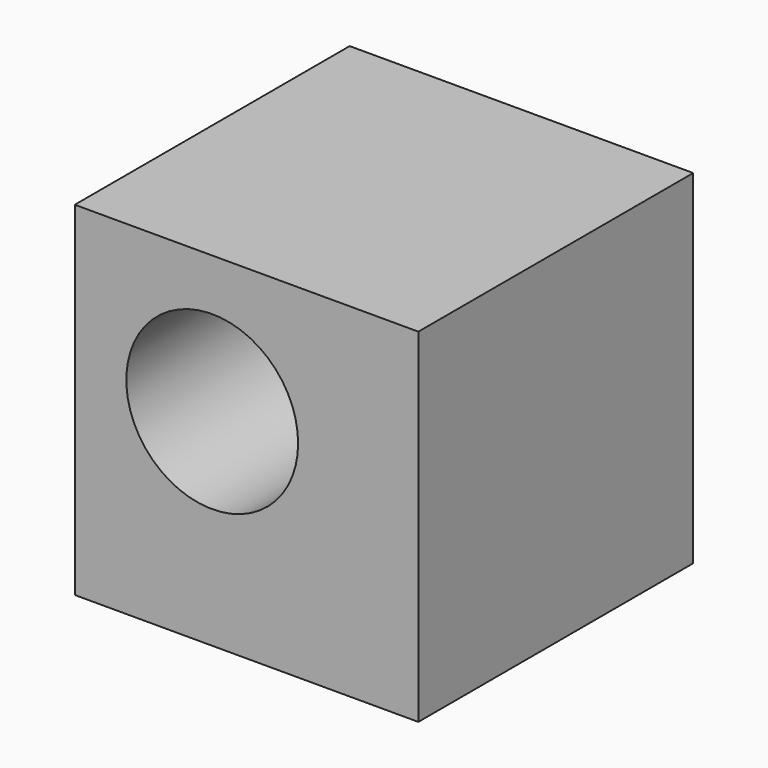
from build123d import *

# Parameters (mm, degrees)
F0_W     = 20
F0_H     = 20
F1_DEPTH = 10
F2_R     = 5
F3_DEPTH = 20.001


with BuildPart() as f1:
    # F0 (on Front) → F1 (new body, symmetric)
    with BuildSketch(Plane.XZ):
        Rectangle(F0_W, F0_H)
    extrude(amount=F1_DEPTH, both=True)

    # F2 (on face) → F3 (cut, through all)
    with BuildSketch(Plane.XZ.offset(10)):
        with Locations((-2, 2)):
            Circle(F2_R)
    extrude(amount=-F3_DEPTH, mode=Mode.SUBTRACT)


solid = f1.part
